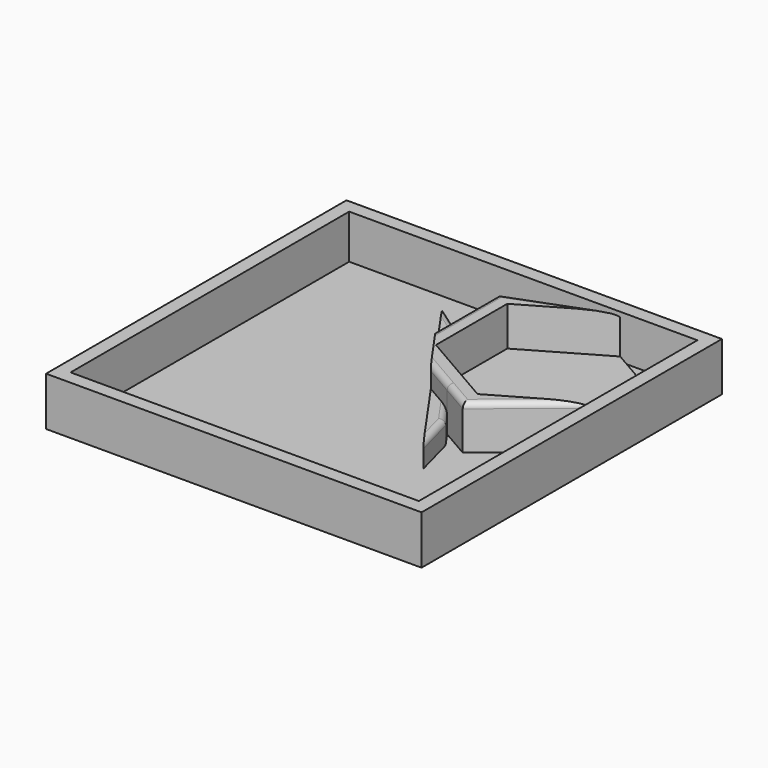
from build123d import *

# Parameters (mm, degrees)
F0_W     = 203.2
F0_H     = 203.2
F1_DEPTH = 2.5
F2_W     = 203.2
F2_H     = 203.2
F2_W_2   = 188.468
F2_H_2   = 188.468
F3_DEPTH = 23.876
F5_DEPTH = 23.876
F7_DEPTH = 21.336
F9_DEPTH = 11.43
F10_R    = 3


with BuildPart() as f1:
    # F0 (on Top) → F1 (new body)
    with BuildSketch(Plane.XY):
        with Locations((101.6, 101.6)):
            Rectangle(F0_W, F0_H)
    extrude(amount=F1_DEPTH)

    # F2 (on face) → F3 (join)
    with BuildSketch(Plane.XY.offset(2.5)):
        with Locations((101.6, 101.6)):
            Rectangle(F2_W, F2_H)
        with Locations((101.6, 101.6)):
            Rectangle(F2_W_2, F2_H_2, mode=Mode.SUBTRACT)
    extrude(amount=F3_DEPTH)


with BuildPart() as f5:
    # F4 (on face) → F5 (new body)
    with BuildSketch(Plane.XY.offset(2.5)):
        Polygon((195.834, 123.444), (195.834, 171.704), (154.039614, 195.834), (103.584974, 176.704), (103.584974, 148.016252), (97.689823, 156.4354), (78.5295, 169.851603), (150.226555, 67.457597), (144.172665, 90.051022), (138.343238, 98.376307), (154.039614, 89.314), align=None)
    extrude(amount=F5_DEPTH)

    # F6 (on face) → F7 (cut)
    with BuildSketch(Plane.XY.offset(26.376)):
        Polygon((195.834, 171.704), (154.039614, 195.834), (112.245228, 171.704), (112.245228, 123.444), (154.039614, 99.314), (195.834, 123.444), align=None)
    extrude(amount=-F7_DEPTH, mode=Mode.SUBTRACT)

    # F8 (on face) → F9 (cut)
    with BuildSketch(Plane.XY.offset(26.376)):
        Polygon((97.689823, 156.4354), (78.5295, 169.851603), (103.584974, 134.068678), (103.584974, 148.016252), align=None)
        Polygon((121.949712, 107.841113), (150.226555, 67.457597), (144.172665, 90.051022), (138.343238, 98.376307), align=None)
    extrude(amount=-F9_DEPTH, mode=Mode.SUBTRACT)

    # F10
    f10_edges = [f5.edges().sort_by_distance(p)[0] for p in [
        (103.584974, 155.386339, 26.376),
        (137.994663, 98.577557, 26.376),
        (174.936807, 106.379, 26.376),
        (128.812294, 186.269, 26.376),
        (88.109662, 163.143501, 14.946),
        (147.19961, 78.75431, 14.946),
        (141.257951, 94.213665, 14.946),
        (100.637399, 152.225826, 14.946),
    ]]
    fillet(f10_edges, radius=F10_R)


solid = Compound([f1.part, f5.part])
